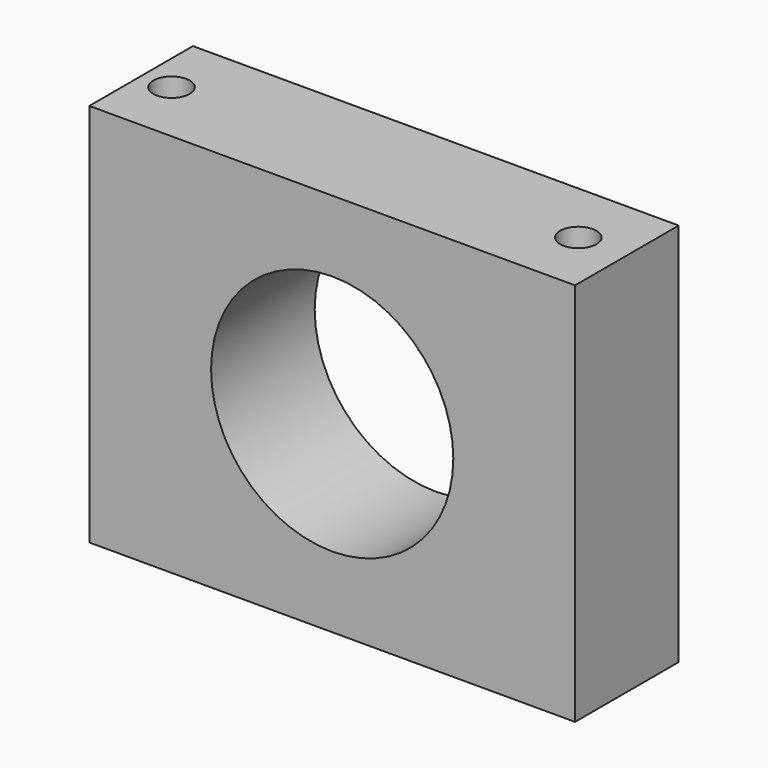
from build123d import *

# Parameters (mm, degrees)
F0_W     = 95.25
F0_H     = 75.367778
F0_R     = 23.749
F1_DEPTH = 25.4
F2_R     = 3.5687
F3_DEPTH = 7.1374


with BuildPart() as f1:
    # F0 (on Front) → F1 (new body)
    with BuildSketch(Plane.XZ):
        with Locations((18.133259, -13.926655)):
            Rectangle(F0_W, F0_H)
        with Locations((18.133259, -13.926655)):
            Circle(F0_R, mode=Mode.SUBTRACT)
    extrude(amount=-F1_DEPTH)

    # F2 (on face) → F3 (cut)
    with BuildSketch(Plane.XY.offset(23.757234)):
        with Locations((-23.535441, 12.7)):
            Circle(F2_R)
        with Locations((56.233259, 12.7)):
            Circle(F2_R)
    extrude(amount=-F3_DEPTH, mode=Mode.SUBTRACT)


solid = f1.part
